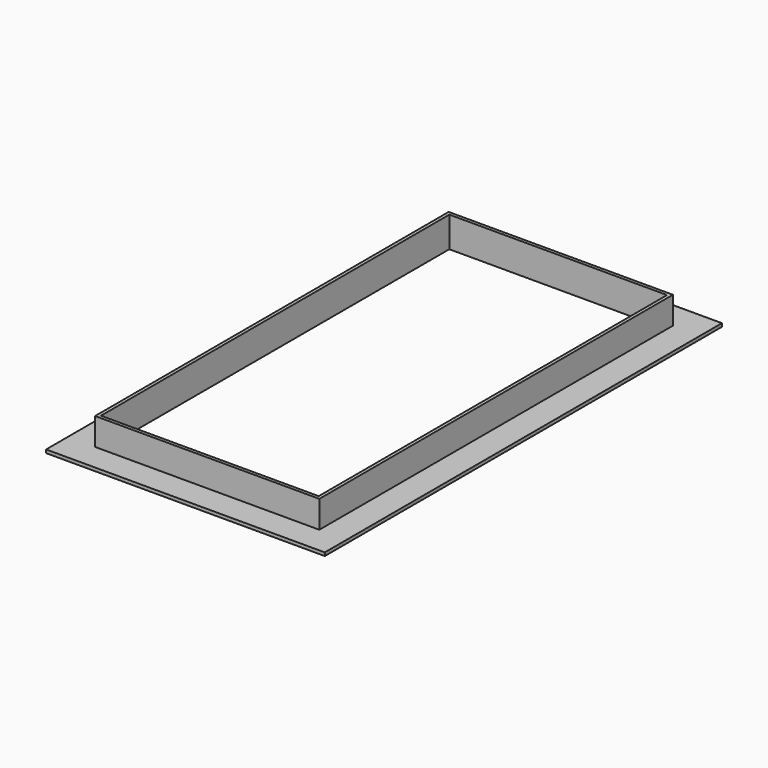
from build123d import *

# Parameters (mm, degrees)
SKETCH046_W            = 400
SKETCH046_H            = 60
PAD003_DEPTH           = 400
SKETCH047_W            = 412
SKETCH047_H            = 50
PAD010_DEPTH           = 406
SKETCH048_W            = 512
SKETCH048_H            = 912
PAD011_DEPTH           = 6
CUT001_PLACEMENT_ANGLE = 180


with BuildPart() as body002:
    # Sketch046 → Pad003 (new body, symmetric)
    with BuildSketch(Plane.XZ):
        with Locations((0, 30)):
            Rectangle(SKETCH046_W, SKETCH046_H)
    extrude(amount=PAD003_DEPTH, both=True)


with BuildPart() as cut001:
    # Sketch047 → Pad010 (new body, symmetric)
    with BuildSketch(Plane.XZ):
        with Locations((0, 25)):
            Rectangle(SKETCH047_W, SKETCH047_H)
    extrude(amount=PAD010_DEPTH, both=True)

    # Sketch048 (on Face3 of Pad010) → Pad011 (join)
    with BuildSketch(Plane(origin=(0, 0, 50), x_dir=(-1, 0, 0), z_dir=(0, 0, 1))):
        Rectangle(SKETCH048_W, SKETCH048_H)
    extrude(amount=PAD011_DEPTH)

    # Cut001: cut Body002
    add(body002.part, mode=Mode.SUBTRACT)


with BuildPart() as cut001_1:
    # Cut001 placement: moved
    add(cut001.part.rotate(Axis((0, 0, 0), (0, 1, 0)), CUT001_PLACEMENT_ANGLE))


solid = cut001_1.part
